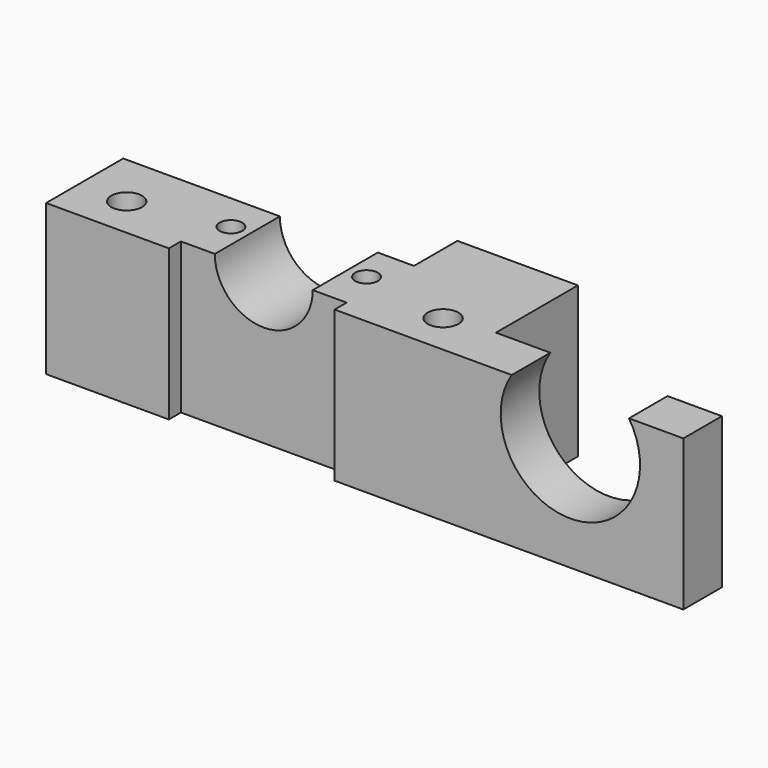
from build123d import *

# Parameters (mm, degrees)
F0_R      = 2.0455133379
F0_R_2    = 1.5
F1_DEPTH  = 20
F0_W      = 30
F0_H      = 6.4
F2_DEPTH  = 30
F3_R      = 6.5
F4_DEPTH  = 18.001
F5_R      = 3
F5_R_2    = 2.0455133379
F6_DEPTH  = 15
F7_R      = 9.25
F8_DEPTH  = 20.001
F9_DEPTH  = 10
F11_DEPTH = 3


with BuildPart() as f1:
    # F0 (on Top) → F1 (new body)
    with BuildSketch(Plane.XY):
        Polygon((11.3, 6.4), (0, 6.4), (-27.3, 6.4), (-27.3, -6.4), (-11, -6.4), (-11, -4.4), (0, -4.4), (11, -4.4), (11, -6.4), (27.3, -6.4), (27.3, 0), (27.3, 13.6), (11.3, 13.6), align=None)
        with Locations((-21, -0.9)):
            Circle(F0_R, mode=Mode.SUBTRACT)
        with Locations((-9, 1.4)):
            Circle(F0_R_2, mode=Mode.SUBTRACT)
        with Locations((9, 1.4)):
            Circle(F0_R_2, mode=Mode.SUBTRACT)
        with Locations((21, -0.9)):
            Circle(F0_R, mode=Mode.SUBTRACT)
    extrude(amount=F1_DEPTH)

    # F0 (on Top) → F2 (join)
    with BuildSketch(Plane.XY):
        with Locations((42.3, -3.2)):
            Rectangle(F0_W, F0_H)
    extrude(amount=F2_DEPTH)

    # F3 (on face) → F4 (cut, through all)
    with BuildSketch(Plane.XZ.offset(4.4)):
        with Locations((0, 20)):
            Circle(F3_R)
    extrude(amount=-F4_DEPTH, mode=Mode.SUBTRACT)

    # F5 (on face) → F6 (cut)
    with BuildSketch(Plane(origin=(0, 0, 0), x_dir=(1, 0, 0), z_dir=(0, 0, -1))):
        with Locations((-21, 0.9)):
            Circle(F5_R)
        with Locations((-21, 0.9)):
            Circle(F5_R_2, mode=Mode.SUBTRACT)
        with Locations((21, 0.9)):
            Circle(F5_R)
        with Locations((21, 0.9)):
            Circle(F5_R_2, mode=Mode.SUBTRACT)
    extrude(amount=-F6_DEPTH, mode=Mode.SUBTRACT)

    # F7 (on face) → F8 (cut, through all)
    with BuildSketch(Plane.XZ.offset(6.4)):
        with Locations((42.3, 15)):
            Circle(F7_R)
    extrude(amount=-F8_DEPTH, mode=Mode.SUBTRACT)

    # F9 (cut): a face of the model
    f9_faces = [f1.faces().sort_by_distance(p)[0] for p in [
        (42.3, -3.2, 30),
    ]]
    extrude(f9_faces, amount=-F9_DEPTH, mode=Mode.SUBTRACT)

    # F10 (on face) → F11 (cut)
    with BuildSketch(Plane.XY):
        Polygon((12, 1.4), (10.5, 3.9980762114), (7.5, 3.9980762114), (6, 1.4), (7.5, -1.1980762114), (10.5, -1.1980762114), align=None)
        Polygon((-10.5, -1.1980762114), (-7.5, -1.1980762114), (-6, 1.4), (-7.5, 3.9980762114), (-10.5, 3.9980762114), (-12, 1.4), align=None)
    extrude(amount=F11_DEPTH, mode=Mode.SUBTRACT)


solid = f1.part
